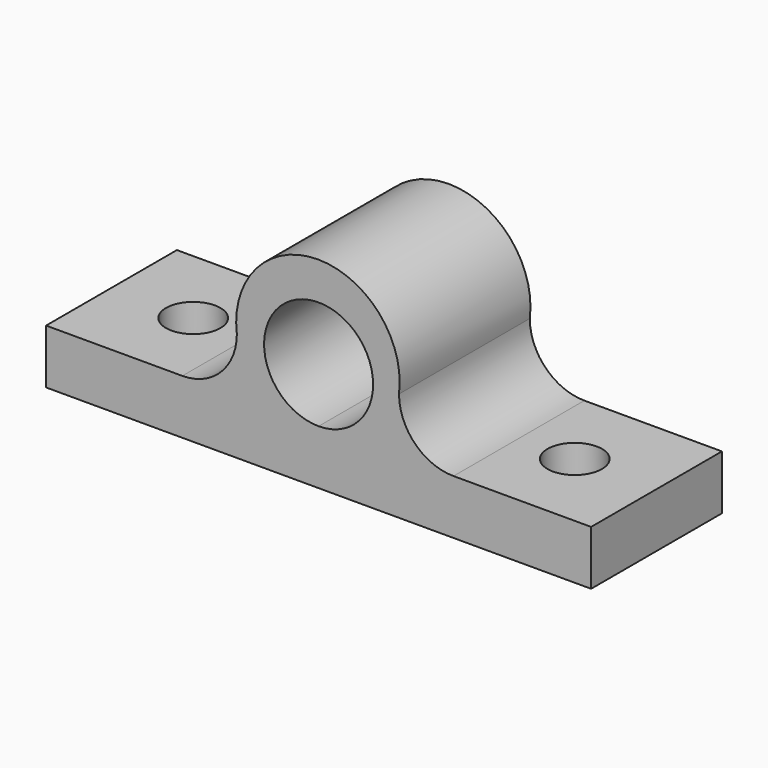
from build123d import *

# Parameters (mm, degrees)
F1_DEPTH = 38.1
F2_R     = 6.35
F3_DEPTH = 12.7
F4_DEPTH = 12.7


with BuildPart() as f1:
    # F0 (on Front) → F1 (new body)
    with BuildSketch(Plane.XZ):
        with BuildLine():
            ThreePointArc((12.7, 25.4), (-8.980256, 34.380256), (0, 12.7))
            ThreePointArc((0, 12.7), (8.980256, 16.419744), (12.7, 25.4))
        make_face()
        with BuildLine():
            Line((-63.5, 12.7), (-63.5, 0))
            Line((-63.5, 0), (0, 0))
            Line((0, 0), (63.5, 0))
            Line((63.5, 0), (63.5, 12.7))
            Line((63.5, 12.7), (37.5412, 12.7))
            Line((37.5412, 12.7), (31.439186, 12.7))
            ThreePointArc((31.439186, 12.7), (22.45893, 16.419744), (18.739186, 25.4))
            ThreePointArc((18.739186, 25.4), (-0.155407, 46.878344), (-19.05, 25.4))
            ThreePointArc((-19.05, 25.4), (-22.769744, 16.419744), (-31.75, 12.7))
            Line((-31.75, 12.7), (-37.5412, 12.7))
            Line((-37.5412, 12.7), (-63.5, 12.7))
        make_face()
        with BuildLine():
            ThreePointArc((12.7, 25.4), (8.980256, 16.419744), (0, 12.7))
            ThreePointArc((0, 12.7), (-8.980256, 34.380256), (12.7, 25.4))
        make_face(mode=Mode.SUBTRACT)
    extrude(amount=F1_DEPTH)

    # F2 (on face) → F3 (cut, through all)
    with BuildSketch(Plane.XY.offset(12.7)):
        with Locations((-44.45, -19.05)):
            Circle(F2_R)
    extrude(amount=-F3_DEPTH, mode=Mode.SUBTRACT)

    # F2 (on face) → F4 (cut, through all)
    with BuildSketch(Plane.XY.offset(12.7)):
        with Locations((44.45, -19.05)):
            Circle(F2_R)
        with Locations((-44.45, -19.05)):
            Circle(F2_R)
    extrude(amount=-F4_DEPTH, mode=Mode.SUBTRACT)


solid = f1.part
